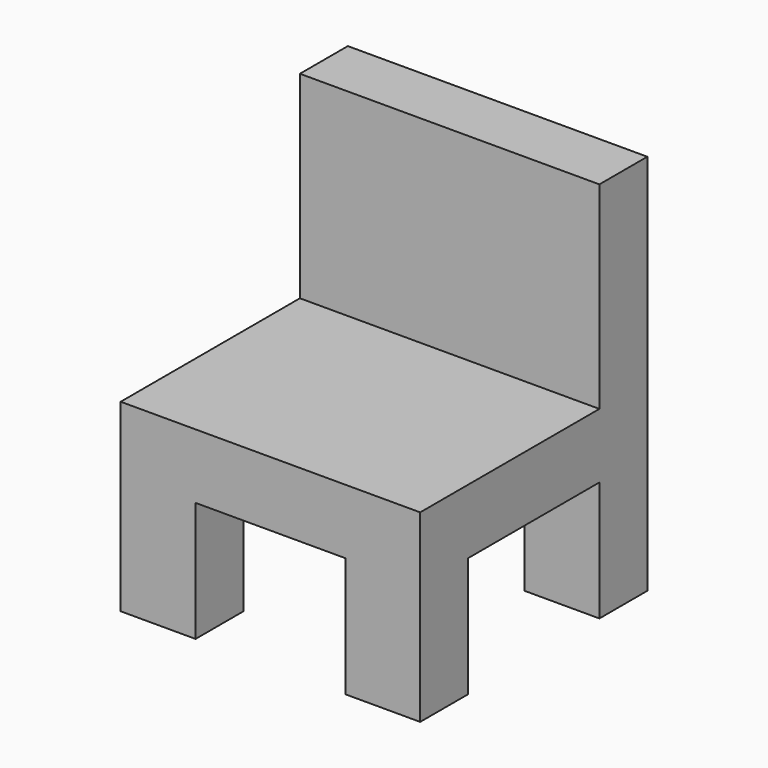
from build123d import *

# Parameters (mm, degrees)
F0_W     = 10.16
F0_H     = 33.5280026136
F0_H_2   = 20.32
F1_DEPTH = 50.8
F2_W     = 25.4
F2_H     = 20.32
F3_DEPTH = 73.914


with BuildPart() as f1:
    # F0 (on Right) → F1 (new body)
    with BuildSketch(Plane.YZ):
        with Locations((43.203733348, 35.1963567068)):
            Rectangle(F0_W, F0_H)
        Polygon((48.283733348, 7.4595541455), (48.283733348, 18.4323554), (38.123733348, 18.4323554), (0.1253340275, 18.4323554), (0.1253340275, 7.4595541455), (10.2853340275, 7.4595541455), (38.123733348, 7.4595541455), align=None)
        with Locations((43.203733348, -2.7004458545)):
            Rectangle(F0_W, F0_H_2)
        with Locations((5.2053340275, -2.7004458545)):
            Rectangle(F0_W, F0_H_2)
    extrude(amount=F1_DEPTH)

    # F2 (on face) → F3 (cut)
    with BuildSketch(Plane(origin=(0, 48.283733348, 0), x_dir=(-1, 0, 0), z_dir=(0, 1, 0))):
        with Locations((-25.4, -2.7004458545)):
            Rectangle(F2_W, F2_H)
    extrude(amount=-F3_DEPTH, mode=Mode.SUBTRACT)


solid = f1.part
